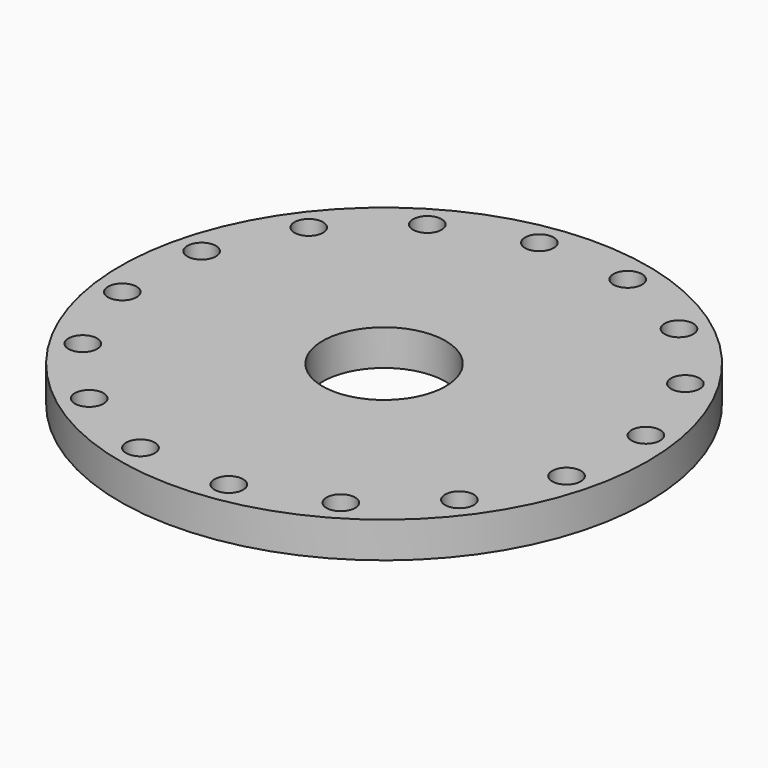
from build123d import *

# Parameters (mm, degrees)
F0_R     = 11.05
F1_DEPTH = 1.5
F2_R     = 0.6
F2_R_2   = 2.575
F3_DEPTH = 25


with BuildPart() as f1:
    # F0 (on Top) → F1 (new body)
    with BuildSketch(Plane.XY):
        Circle(F0_R)
    extrude(amount=F1_DEPTH)

    # F2 (on face) → F3 (cut)
    with BuildSketch(Plane.XY.offset(1.5)):
        with Locations((5.98916, 7.945594)):
            Circle(F2_R)
        with Locations((-7.945594, 5.98916)):
            Circle(F2_R)
        with Locations((-5.048819, 8.57391)):
            Circle(F2_R)
        with Locations((-1.383407, 9.853359)):
            Circle(F2_R)
        with Locations((2.492616, 9.632724)):
            Circle(F2_R)
        with Locations((-9.632724, 2.492616)):
            Circle(F2_R)
        with Locations((-9.853359, -1.383407)):
            Circle(F2_R)
        Circle(F2_R_2)
        with Locations((-8.57391, -5.048819)):
            Circle(F2_R)
        with Locations((-5.98916, -7.945594)):
            Circle(F2_R)
        with Locations((-2.492616, -9.632724)):
            Circle(F2_R)
        with Locations((1.383407, -9.853359)):
            Circle(F2_R)
        with Locations((5.048819, -8.57391)):
            Circle(F2_R)
        with Locations((7.945594, -5.98916)):
            Circle(F2_R)
        with Locations((9.632724, -2.492616)):
            Circle(F2_R)
        with Locations((9.853359, 1.383407)):
            Circle(F2_R)
        with Locations((8.57391, 5.048819)):
            Circle(F2_R)
    extrude(amount=-F3_DEPTH, mode=Mode.SUBTRACT)


solid = f1.part
